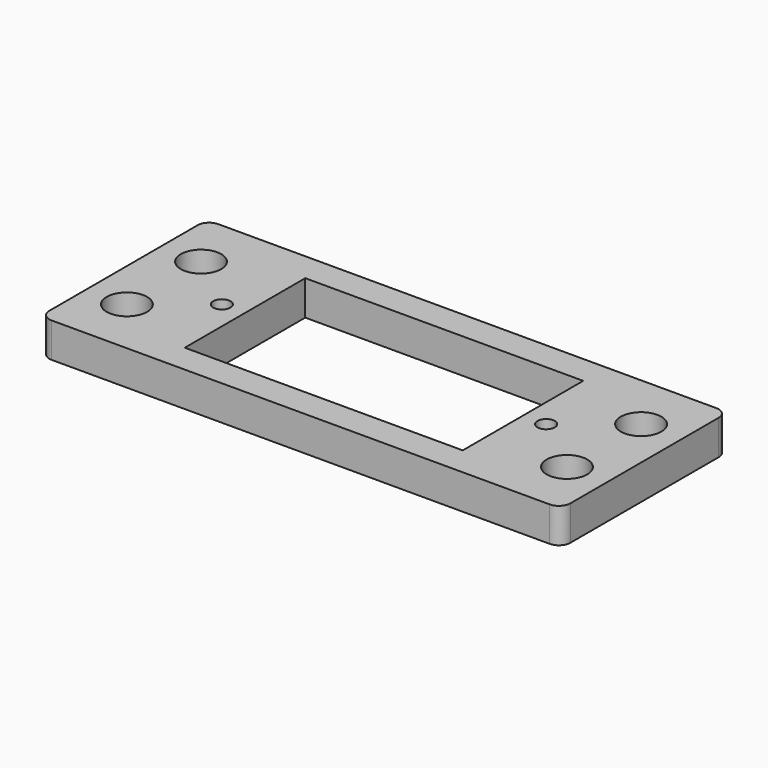
from build123d import *

# Parameters (mm, degrees)
F0_W     = 45
F0_H     = 18
F0_W_2   = 7
F0_H_2   = 8
F1_DEPTH = 3
F2_D     = 3.5
F3_R     = 1
F5_D     = 1.5


with BuildPart() as f1:
    # F0 (on Top) → F1 (new body)
    with BuildSketch(Plane.XY):
        Rectangle(F0_W, F0_H)
        Polygon((19, 4), (19, -4), (12, -4), (12, -6.5), (-12, -6.5), (-12, -4), (-19, -4), (-19, 4), (-12, 4), (-12, 6.5), (12, 6.5), (12, 4), align=None, mode=Mode.SUBTRACT)
        with Locations((15.5, 0)):
            Rectangle(F0_W_2, F0_H_2)
        with Locations((-15.5, 0)):
            Rectangle(F0_W_2, F0_H_2)
    extrude(amount=F1_DEPTH)

    # F2 (through all)
    with Locations(Plane(origin=(0, 0, 0), x_dir=(1, 0, 0), z_dir=(0, 0, -1))):
        with Locations((-19, 4), (-19, -4), (19, -4), (19, 4)):
            Hole(F2_D / 2)

    # F3
    f3_edges = [f1.edges().sort_by_distance(p)[0] for p in [
        (22.5, 9, 1.5),
        (22.5, -9, 1.5),
        (-22.5, -9, 1.5),
        (-22.5, 9, 1.5),
    ]]
    fillet(f3_edges, radius=F3_R)

    # F5 (through all)
    with Locations(Plane.XY.offset(3)):
        with Locations((-14, 0), (14, 0)):
            Hole(F5_D / 2)


solid = f1.part
